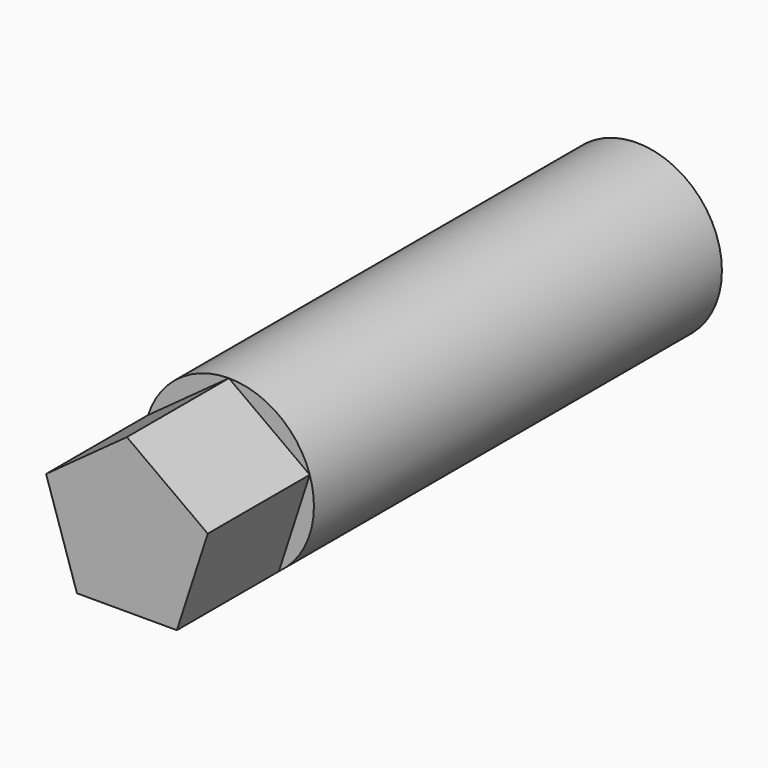
from build123d import *

# Parameters (mm, degrees)
F0_R     = 254
F1_DEPTH = 1524
F3_DEPTH = 381


with BuildPart() as f1:
    # F0 (on Front) → F1 (new body)
    with BuildSketch(Plane.XZ):
        Circle(F0_R)
    extrude(amount=F1_DEPTH)

    # F2 (on face) → F3 (join)
    with BuildSketch(Plane.XZ.offset(1524)):
        Polygon((241.568355, 78.490317), (0, 254), (-241.568355, 78.490317), (-149.297454, -205.490317), (149.297454, -205.490317), align=None)
    extrude(amount=F3_DEPTH)


solid = f1.part
